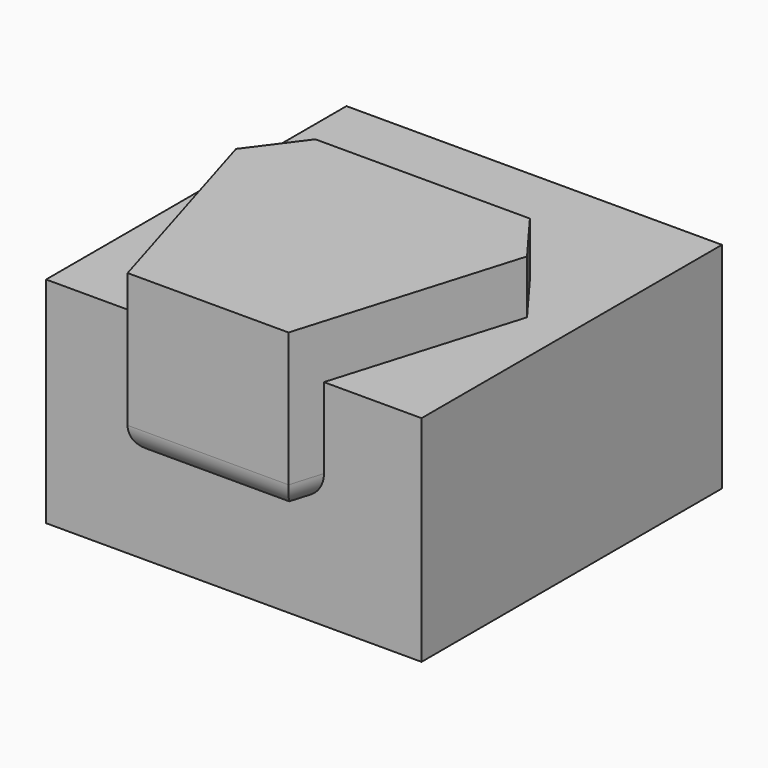
from build123d import *

# Parameters (mm, degrees)
F1_DEPTH      = 30
F2_SIZE       = 10
F3_R          = 5
F4_W          = 70
F4_H          = 70
F5_DEPTH      = 20
F5_DEPTH_BACK = 20


with BuildPart() as f1:
    # F0 (on Top) → F1 (new body)
    with BuildSketch(Plane.XY):
        Polygon((-15, 0), (0, 0), (15, 0), (30, 50), (0, 50), (-30, 50), align=None)
    extrude(amount=F1_DEPTH)

    # F2
    f2_edges = [f1.edges().sort_by_distance(p)[0] for p in [
        (-30, 50, 15),
        (30, 50, 15),
    ]]
    chamfer(f2_edges, length=F2_SIZE)

    # F3
    f3_edges = [f1.edges().sort_by_distance(p)[0] for p in [
        (21.063261, 20.210869, 0),
        (23.563261, 45.210869, 0),
        (0, 0, 0),
        (0, 50, 0),
        (-21.063261, 20.210869, 0),
        (-23.563261, 45.210869, 0),
    ]]
    fillet(f3_edges, radius=F3_R)


with BuildPart() as f5:
    # F4 (on Top) → F5 (new body, two sides)
    with BuildSketch(Plane.XY) as f5_sk:
        with Locations((0, 41)):
            Rectangle(F4_W, F4_H)
    extrude(amount=F5_DEPTH)
    extrude(f5_sk.sketch, amount=-F5_DEPTH_BACK)

    # F6: cut F1
    add(f1.part, mode=Mode.SUBTRACT)


solid = Compound([f1.part, f5.part])
